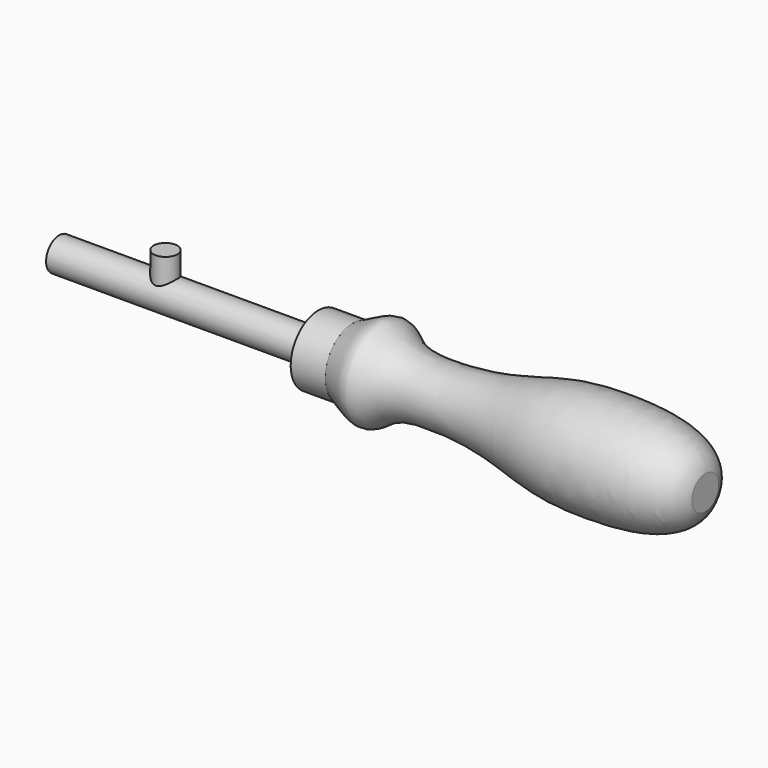
from build123d import *

# Parameters (mm, degrees)
F0_W     = 76.2
F0_H     = 4.826
F3_DEPTH = 11.176
F4_R     = 4.5085
F5_DEPTH = 50.8


with BuildPart() as f1:
    # F0 (on Front) → F1 (revolve)
    with BuildSketch(Plane.XZ):
        with Locations((-38.1, 2.413)):
            Rectangle(F0_W, F0_H)
        Polygon((0, 4.826), (0, 0), (10.16, 0), (10.16, 10.16), (0, 10.16), align=None)
        with BuildLine():
            Line((10.16, 10.16), (10.16, 0))
            Line((10.16, 0), (18.796, 0))
            Line((18.796, 0), (53.848, 0))
            Line((53.848, 0), (113.792, 0))
            Line((113.792, 0), (113.792, 4.9320105463))
            add(Edge.make_bspline(
                [(10.16, 10.16), (13.7052002053, 11.5489816795), (18.8750721399, 15.575013351), (24.7449167559, 8.7087798176), (38.0188993062, 8.0562980931), (53.997031353, 9.5899815331), (70.7667696282, 14.8120816393), (87.6805073033, 15.3823754953), (105.7530127128, 13.9496938754), (113.0144173366, 8.3257304953), (113.792, 4.9320105463)],
                knots=[0, 0, 0, 0, 0.1043231262, 0.194715736, 0.3169668625, 0.4560481077, 0.598910255, 0.7411190704, 0.8869306816, 1, 1, 1, 1], degree=3))
        make_face()
    revolve(axis=Axis((18.796, 0, 0), (1, 0, 0)))

    # F2 (on Top) → F3 (join)
    with BuildSketch(Plane.XY):
        with BuildLine():
            ThreePointArc((-41.4655, 0), (-44.958, 3.4925), (-48.4505, 0))
            Line((-48.4505, 0), (-41.4655, 0))
        make_face()
        with BuildLine():
            Line((-41.4655, 0), (-48.4505, 0))
            ThreePointArc((-48.4505, 0), (-44.958, -3.4925), (-41.4655, 0))
        make_face()
    extrude(amount=F3_DEPTH)


with BuildPart() as f5:
    # F4 (on face) → F5 (new body)
    with BuildSketch(Plane(origin=(-76.2, 0, 0), x_dir=(0, -1, 0), z_dir=(-1, 0, 0))):
        Circle(F4_R)
    extrude(amount=-F5_DEPTH)


with BuildPart() as f1_1:
    add(f1.part)

    # F6: cut F5
    add(f5.part, mode=Mode.SUBTRACT)


solid = f1_1.part
